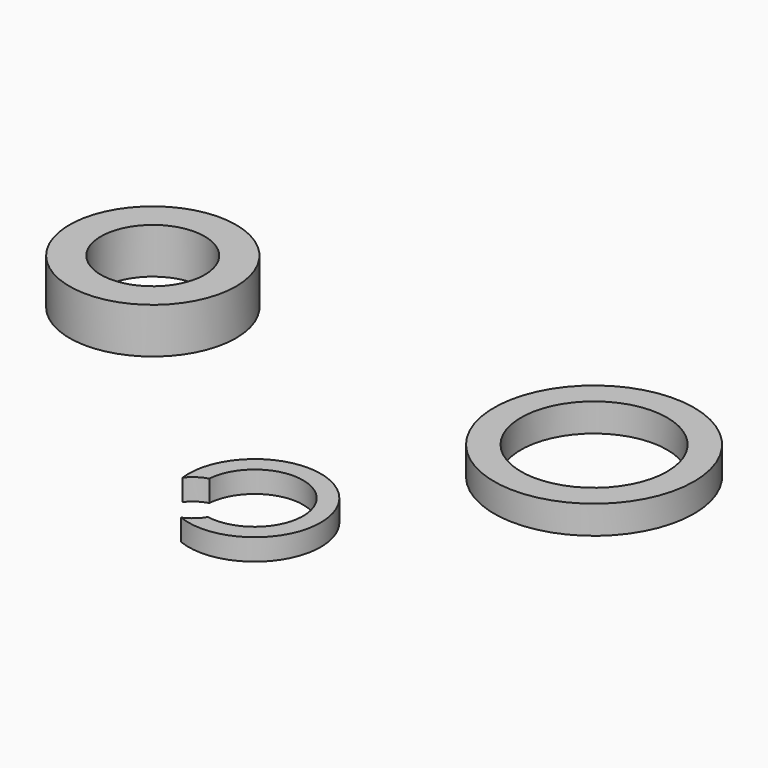
from build123d import *

# Parameters (mm, degrees)
F0_R     = 10.922
F0_R_2   = 8.001
F1_DEPTH = 3.556
F2_R     = 5.748721
F3_DEPTH = 4.699
F4_R     = 13.7541
F4_R_2   = 8.5725
F5_DEPTH = 7.5184
F6_R     = 16.51
F6_R_2   = 12.065
F7_DEPTH = 4.6736


with BuildPart() as f1:
    # F0 (on Top) → F1 (new body)
    with BuildSketch(Plane.XY):
        Circle(F0_R)
        Circle(F0_R_2, mode=Mode.SUBTRACT)
    extrude(amount=F1_DEPTH)

    # F2 (on face) → F3 (cut)
    with BuildSketch(Plane.XY.offset(3.556)):
        with Locations((-6.328924, -4.894968)):
            Circle(F2_R)
    extrude(amount=-F3_DEPTH, mode=Mode.SUBTRACT)


with BuildPart() as f5:
    # F4 (on Top) → F5 (new body)
    with BuildSketch(Plane.XY):
        with Locations((-47.79667, 38.725771)):
            Circle(F4_R)
        with Locations((-47.79667, 38.725771)):
            Circle(F4_R_2, mode=Mode.SUBTRACT)
    extrude(amount=F5_DEPTH)


with BuildPart() as f7:
    # F6 (on Top) → F7 (new body)
    with BuildSketch(Plane.XY):
        with Locations((26.166059, 37.330247)):
            Circle(F6_R)
        with Locations((26.166059, 37.330247)):
            Circle(F6_R_2, mode=Mode.SUBTRACT)
    extrude(amount=F7_DEPTH)


solid = Compound([f1.part, f5.part, f7.part])
